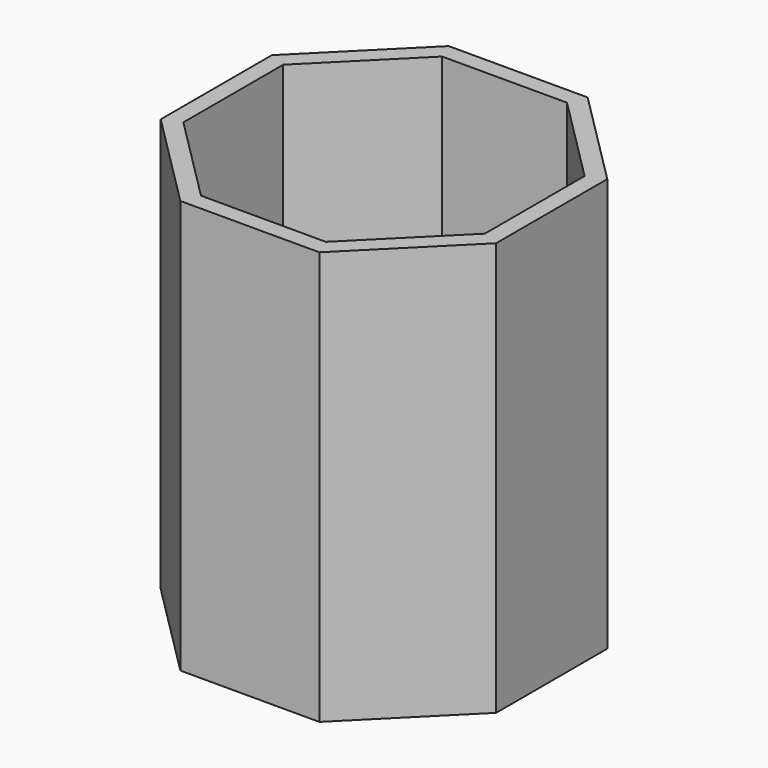
from build123d import *

# Parameters (mm, degrees)
F1_DEPTH = 72.9
F2_T     = -3


with BuildPart() as f1:
    # F0 (on Top) → F1 (new body)
    with BuildSketch(Plane.XY):
        Polygon((12.249669, 29.573318), (-12.249669, 29.573318), (-29.573318, 12.249669), (-29.573318, -12.249669), (-12.249669, -29.573318), (12.249669, -29.573318), (29.573318, -12.249669), (29.573318, 12.249669), align=None)
    extrude(amount=F1_DEPTH)

    # F2
    f2_openings = [f1.faces().sort_by_distance(p)[0] for p in [
        (0, 0, 72.9),
    ]]
    offset(amount=F2_T, openings=f2_openings)


solid = f1.part
